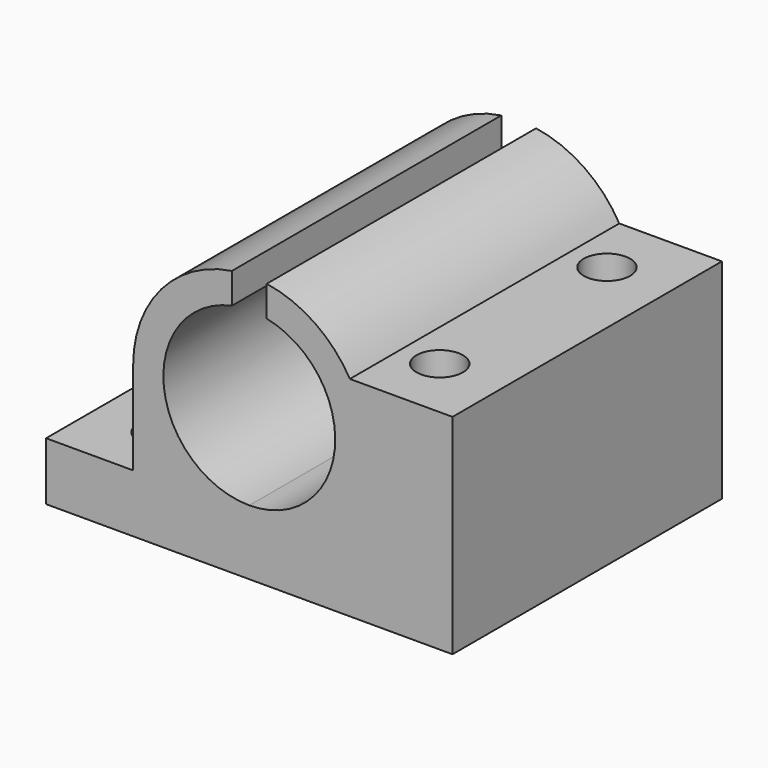
from build123d import *

# Parameters (mm, degrees)
F1_DEPTH = 29
F3_D     = 4


with BuildPart() as f1:
    # F0 (on Front) → F1 (new body)
    with BuildSketch(Plane.XZ):
        with BuildLine():
            Line((-17.5, 0), (0, 0))
            Line((0, 0), (17.5, 0))
            Line((17.5, 0), (17.5, 5))
            Line((17.5, 5), (10, 5))
            Line((10, 5), (10, 13))
            ThreePointArc((10, 13), (9.659258, 15.58819), (8.660254, 18))
            ThreePointArc((8.660254, 18), (5.637201, 21.259659), (1.5, 22.88686))
            Line((1.5, 22.88686), (1.5, 20.246378))
            ThreePointArc((1.5, 20.246378), (7.361494, 12.246077), (0, 5.6))
            ThreePointArc((0, 5.6), (-7.361494, 12.246077), (-1.5, 20.246378))
            Line((-1.5, 20.246378), (-1.5, 22.88686))
            ThreePointArc((-1.5, 22.88686), (-7.582875, 19.519202), (-10, 13))
            Line((-10, 13), (-10, 5))
            Line((-10, 5), (-17.5, 5))
            Line((-17.5, 5), (-17.5, 0))
        make_face()
        with BuildLine():
            Line((10, 5), (17.5, 5))
            Line((17.5, 5), (17.5, 18))
            Line((17.5, 18), (8.660254, 18))
            ThreePointArc((8.660254, 18), (9.659258, 15.58819), (10, 13))
            Line((10, 13), (10, 5))
        make_face()
    extrude(amount=F1_DEPTH)

    # F3 (through all)
    with Locations(Plane(origin=(0, 0, 0), x_dir=(1, 0, 0), z_dir=(0, 0, -1))):
        with Locations((-12, 23.5), (12, 23.5), (-12, 5.5), (12, 5.5)):
            Hole(F3_D / 2)


solid = f1.part
